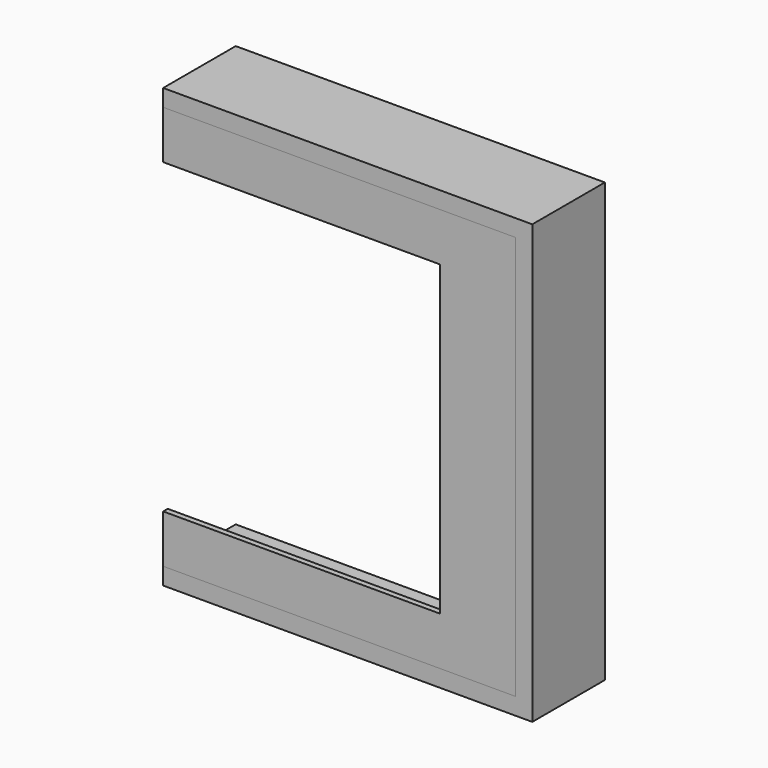
from build123d import *

# Parameters (mm, degrees)
F1_DEPTH = 1.5875
F2_DEPTH = 25.4
F4_D     = 3.81
F4_DEPTH = 6.985
F4_TIP   = 1.1446394792
F6_D     = 3.81
F6_DEPTH = 6.985
F6_TIP   = 1.1446394792


with BuildPart() as f1:
    # F0 (on Front) → F1 (new body)
    with BuildSketch(Plane.XZ):
        Polygon((0, 56.5785), (0, 54.991), (97.028, 54.991), (97.028, -54.991), (0, -54.991), (0, -56.5785), (98.6155, -56.5785), (98.6155, 56.5785), align=None)
        Polygon((0, 43.053), (77.47, 43.053), (77.47, -43.053), (0, -43.053), (0, -54.991), (97.028, -54.991), (97.028, 54.991), (0, 54.991), align=None)
    extrude(amount=-F1_DEPTH)


with BuildPart() as f2:
    # F0 (on Front) → F2 (new body)
    with BuildSketch(Plane.XZ):
        Polygon((0, 61.341), (0, 56.5785), (98.6155, 56.5785), (98.6155, -56.5785), (0, -56.5785), (0, -61.341), (103.378, -61.341), (103.378, 61.341), align=None)
    extrude(amount=-F2_DEPTH)

    # F4
    with Locations(Plane(origin=(0, 0, 0), x_dir=(0, -1, 0), z_dir=(-1, 0, 0))):
        with Locations((-12.7, 58.95975)):
            Hole(F4_D / 2, depth=F4_DEPTH)
            with Locations((0, 0, -(F4_DEPTH + F4_TIP / 2))):  # 118° drill point
                Cone(0, F4_D / 2, F4_TIP, mode=Mode.SUBTRACT)

    # F6
    with Locations(Plane(origin=(0, 0, 0), x_dir=(0, -1, 0), z_dir=(-1, 0, 0))):
        with Locations((-12.7, -58.95975)):
            Hole(F6_D / 2, depth=F6_DEPTH)
            with Locations((0, 0, -(F6_DEPTH + F6_TIP / 2))):  # 118° drill point
                Cone(0, F6_D / 2, F6_TIP, mode=Mode.SUBTRACT)


solid = Compound([f1.part, f2.part])
